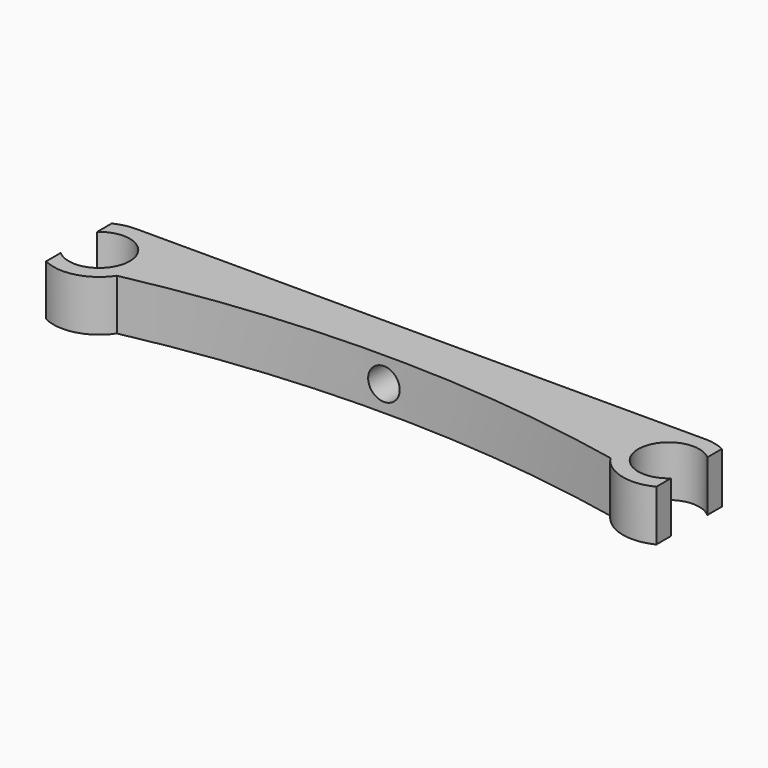
from build123d import *

# Parameters (mm, degrees)
PAD_DEPTH    = 10
SKETCH001_R  = 3.1
POCKET_DEPTH = 17.999765


with BuildPart() as part:
    # Sketch → Pad (new body)
    with BuildSketch(Plane.XY):
        with BuildLine():
            ThreePointArc((-60, -4.472136), (-50, 0), (-60, 4.472136))
            Line((-60, 8.062258), (-60, 4.472136))
            ThreePointArc((-55.850927, 8.998765), (-57.981583, 8.779142), (-60, 8.062258))
            Line((-55.850927, 8.998765), (56.149073, 8.998765))
            ThreePointArc((60, 8.062258), (58.126726, 8.745115), (56.149073, 8.998765))
            Line((60, 8.062258), (60, 4.472136))
            ThreePointArc((60, 4.472136), (50, 0), (60, -4.472136))
            Line((60, -4.472136), (60, -8.062258))
            ThreePointArc((48.516685, -5), (53.681008, -8.696107), (60, -8.062258))
            ThreePointArc((48.516685, -5), (0, 0), (-48.516685, -5))
            ThreePointArc((-60, -8.062258), (-53.681008, -8.696107), (-48.516685, -5))
            Line((-60, -4.472136), (-60, -8.062258))
        make_face()
    extrude(amount=PAD_DEPTH)

    # Sketch001 (on Face4 of Pad) → Pocket (cut, through all)
    with BuildSketch(Plane(origin=(0, 8.998765, 0), x_dir=(-1, 0, 0), z_dir=(0, 1, 0))):
        with Locations((0, 5)):
            Circle(SKETCH001_R)
    extrude(amount=-POCKET_DEPTH, mode=Mode.SUBTRACT)


solid = part.part
